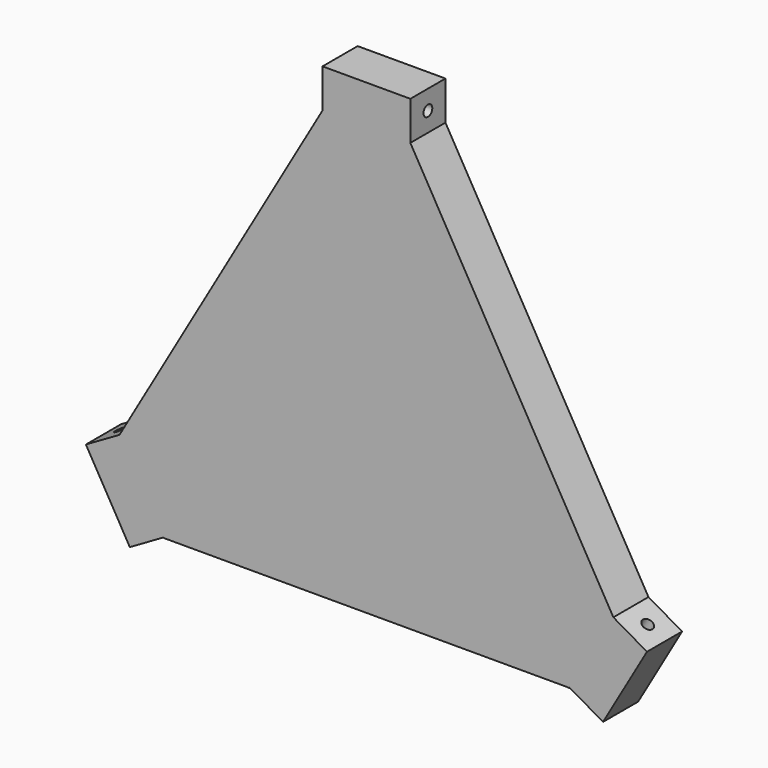
from build123d import *

# Parameters (mm, degrees)
F0_R      = 60
F1_DEPTH  = 10
F2_W      = 20
F2_H      = 10
F3_DEPTH  = 10
F5_D      = 2.5
F7_D      = 2.5
F9_D      = 2.5
F11_DEPTH = 10.001
F13_DEPTH = 25


with BuildPart() as f1:
    # F0 (on Front) → F1 (new body)
    with BuildSketch(Plane.XZ):
        Circle(F0_R)
    extrude(amount=F1_DEPTH)

    # F2 (on face) → F3 (join)
    with BuildSketch(Plane.XZ.offset(10)):
        with Locations((0, 63)):
            Rectangle(F2_W, F2_H)
        Polygon((-53.8897274573, -42.6602540378), (-45.2294734195, -37.6602540378), (-55.2294734195, -20.3397459622), (-63.8897274573, -25.3397459622), align=None)
        Polygon((63.8897274573, -25.3397459622), (55.2294734195, -20.3397459622), (45.2294734195, -37.6602540378), (53.8897274573, -42.6602540378), align=None)
    extrude(amount=-F3_DEPTH)

    # F5 (through all)
    with Locations(Plane(origin=(-10, 0, 0), x_dir=(0, -1, 0), z_dir=(-1, 0, 0))):
        with Locations((5, 63.5803989155)):
            Hole(F5_D / 2)

    # F7 (through all)
    with Locations(Plane(origin=(-5, 0, 8.6602540378), x_dir=(0.8660254038, 0, 0.5), z_dir=(-0.5, 0, 0.8660254038))):
        with Locations((-63.5803989155, -5)):
            Hole(F7_D / 2)

    # F9 (through all)
    with Locations(Plane(origin=(-5, 0, -8.6602540378), x_dir=(0.8660254038, 0, -0.5), z_dir=(-0.5, 0, -0.8660254038))):
        with Locations((63.5803989155, 5)):
            Hole(F9_D / 2)

    # F10 (on face) → F11 (cut, through all)
    with BuildSketch(Plane.XZ):
        Polygon((46.057395637, -38.3253619075), (-46.2041050196, -38.3253619075), (-47.8550866246, -60.4935437441), (42.8329333663, -62.1057748795), align=None)
    extrude(amount=F11_DEPTH, mode=Mode.SUBTRACT)

    # F12 (on face) → F13 (cut)
    with BuildSketch(Plane(origin=(0, 0, 0), x_dir=(-1, 0, 0), z_dir=(0, 1, 0))):
        Polygon((10, 59.160797831), (56.2347538298, -20.9201448777), (84.3601897359, -9.6184732392), (39.3041819334, 80.4935470223), align=None)
        Polygon((-56.2347538298, -20.9201448777), (-10, 59.160797831), (-43.3372279011, 71.7235354264), (-86.677499705, -3.3440173517), align=None)
    extrude(amount=-F13_DEPTH, mode=Mode.SUBTRACT)


solid = f1.part
